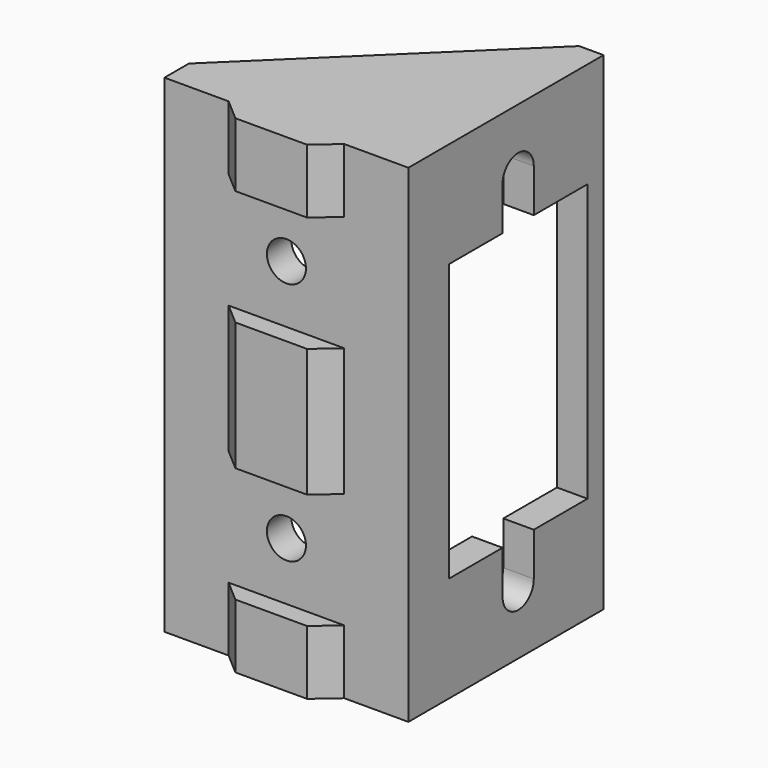
from build123d import *

# Parameters (mm, degrees)
PAD_DEPTH            = 40
PAD001_DEPTH         = 40
SKETCH002_W          = 17.5
SKETCH002_H          = 36
POCKET_DEPTH         = 18
SKETCH003_W          = 14.2
SKETCH003_H          = 22.7
POCKET001_DEPTH      = 2.001
SKETCH004_R          = 1.6
POCKET002_DEPTH      = 21.561
SKETCH005_W          = 9.48
SKETCH005_H          = 9.48
POCKET003_DEPTH      = 1.56
POCKET003_FACE12_W   = 17.5
POCKET003_FACE12_H   = 36
POCKET003_FACE12_W_2 = 14.2
POCKET003_FACE12_H_2 = 22.7
PAD002_DEPTH         = 0.5
POCKET004_DEPTH      = 38.001
POCKET005_DEPTH      = 2.5
SKETCH007_W          = 3
SKETCH007_H          = 5
PAD003_DEPTH         = 5
CHAMFER_SIZE         = 4.99
SKETCH008_R          = 1.6
POCKET006_DEPTH      = 17.5


with BuildPart() as part:
    # Sketch → Pad (new body)
    with BuildSketch(Plane.XY):
        Polygon((-10, -8.75), (-10, -11.25), (-4.74, -11.25), (-2.94, -12.81), (2.94, -12.81), (4.74, -11.25), (10, -11.25), (10, 8.75), (8, 8.75), (8, -8.75), align=None)
    extrude(amount=PAD_DEPTH)

    # Sketch001 (on Face11 of Pad) → Pad001 (join)
    with BuildSketch(Plane(origin=(0, 0, 0), x_dir=(1, 0, 0), z_dir=(0, 0, -1))):
        Polygon((-10, 8.75), (8, -8.75), (8, 8.75), align=None)
    extrude(amount=-PAD001_DEPTH)

    # Sketch002 (on Face1 of Pad001) → Pocket (cut)
    with BuildSketch(Plane(origin=(-10, 0, 0), x_dir=(0, -1, 0), z_dir=(-1, 0, 0))):
        with Locations((0, 20)):
            Rectangle(SKETCH002_W, SKETCH002_H)
    extrude(amount=-POCKET_DEPTH, mode=Mode.SUBTRACT)

    # Sketch003 (on Face12 of Pocket) → Pocket001 (cut, through all)
    with BuildSketch(Plane(origin=(8, 0, 0), x_dir=(0, -1, 0), z_dir=(-1, 0, 0))):
        with Locations((0, 20)):
            Rectangle(SKETCH003_W, SKETCH003_H)
    extrude(amount=-POCKET001_DEPTH, mode=Mode.SUBTRACT)

    # Sketch004 (on Face15 of Pocket001) → Pocket002 (cut, through all)
    with BuildSketch(Plane.XZ.offset(12.81)):
        with Locations((0, 30)):
            Circle(SKETCH004_R)
        with Locations((0, 10)):
            Circle(SKETCH004_R)
    extrude(amount=-POCKET002_DEPTH, mode=Mode.SUBTRACT)

    # Sketch005 (on Face17 of Pocket002) → Pocket003 (cut)
    with BuildSketch(Plane.XZ.offset(12.81)):
        with Locations((0, 30)):
            Rectangle(SKETCH005_W, SKETCH005_H)
        with Locations((0, 10)):
            Rectangle(SKETCH005_W, SKETCH005_H)
    extrude(amount=-POCKET003_DEPTH, mode=Mode.SUBTRACT)

    # Pocket003 Face12 → Pad002 (add)
    with BuildSketch(Plane(origin=(8, 0, 20), x_dir=(0, 1, 0), z_dir=(-1, 0, 0))):
        Rectangle(POCKET003_FACE12_W, POCKET003_FACE12_H)
        Rectangle(POCKET003_FACE12_W_2, POCKET003_FACE12_H_2, mode=Mode.SUBTRACT)
    extrude(amount=PAD002_DEPTH)

    # Pad002 Face11 → Pocket004 (cut, through all)
    with BuildSketch(Plane(origin=(7.666667, 8.587963, 2), x_dir=(0, -1, 0), z_dir=(0, 0, -1))):
        Polygon((-0.162037, -0.333333), (0.324074, 0.166667), (-0.162037, 0.166667), align=None)
    extrude(amount=-POCKET004_DEPTH, mode=Mode.SUBTRACT)

    # Sketch006 (on Face26 of Pocket004) → Pocket005 (cut)
    with BuildSketch(Plane.YZ.offset(10)):
        with BuildLine():
            ThreePointArc((1.6, 34.9), (0, 36.5), (-1.6, 34.9))
            Line((-1.6, 34.9), (-1.6, 5.1))
            ThreePointArc((-1.6, 5.1), (0, 3.5), (1.6, 5.1))
            Line((1.6, 5.1), (1.6, 34.9))
        make_face()
    extrude(amount=-POCKET005_DEPTH, mode=Mode.SUBTRACT)

    # Sketch007 (on Face3 of Pocket005) → Pad003 (join)
    with BuildSketch(Plane(origin=(0, -8.75, 0), x_dir=(-1, 0, 0), z_dir=(0, 1, 0))):
        with Locations((8.5, 20)):
            Rectangle(SKETCH007_W, SKETCH007_H)
    extrude(amount=PAD003_DEPTH)

    # Chamfer
    chamfer_edges = [part.edges().sort_by_distance(p)[0] for p in [
        (-7, -8.75, 20),
    ]]
    chamfer(chamfer_edges, length=CHAMFER_SIZE)

    # Sketch008 (on Face13 of Chamfer) → Pocket006 (cut)
    with BuildSketch(Plane(origin=(-10, 0, 0), x_dir=(0, -1, 0), z_dir=(-1, 0, 0))):
        with Locations((6.25, 20)):
            Circle(SKETCH008_R)
    extrude(amount=-POCKET006_DEPTH, mode=Mode.SUBTRACT)


solid = part.part
